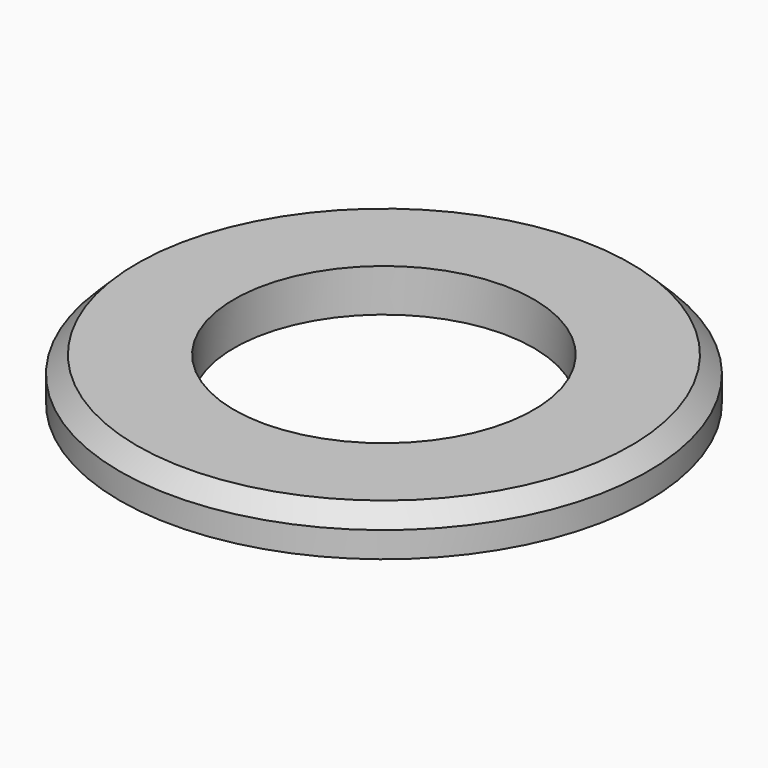
from build123d import *


with BuildPart() as part:
    # Sketch → Revolution (revolve)
    with BuildSketch(Plane.YZ):
        Polygon((10.5, 0), (18.5, 0), (18.5, 1.8), (17.3, 3), (10.5, 3), align=None)
    revolve(axis=Axis((0, 0, 0), (0, 0, 1)))


solid = part.part
